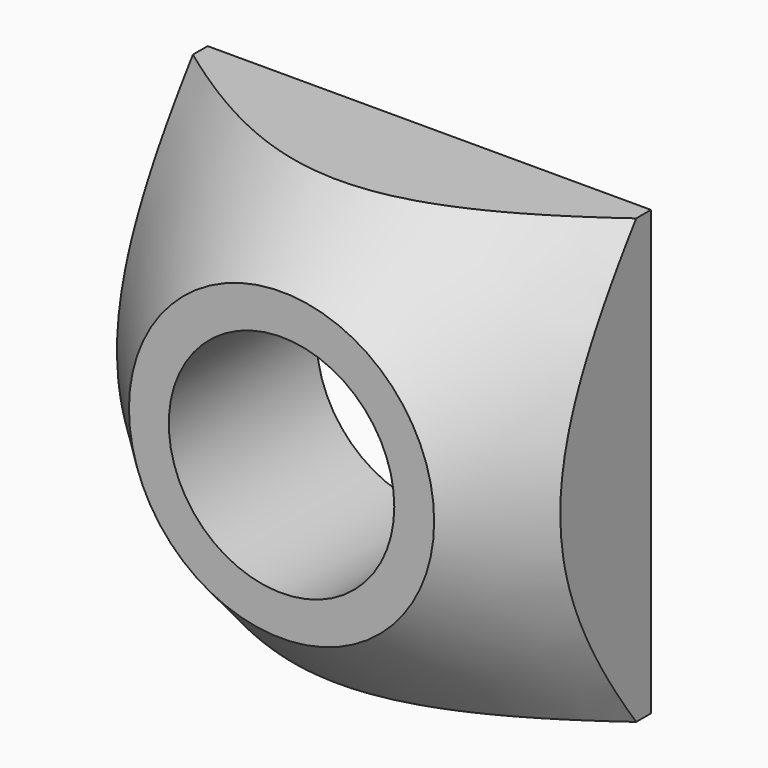
from build123d import *

# Parameters (mm, degrees)
F0_W     = 60
F0_H     = 60
F1_DEPTH = 25
F2_R     = 44.839228
F3_R     = 20.655466
F5_R     = 15.261673
F6_DEPTH = 30


with BuildPart() as f1:
    # F0 (on Front) → F1 (new body)
    with BuildSketch(Plane.XZ):
        Rectangle(F0_W, F0_H)
    extrude(amount=F1_DEPTH)

    # F2 (on Front) → F4 section 0
    with BuildSketch(Plane.XZ):
        Circle(F2_R)
    # F3 (on face) → F4 section 1
    with BuildSketch(Plane.XZ.offset(25)):
        Circle(F3_R)
    loft(mode=Mode.INTERSECT)

    # F5 (on face) → F6 (cut)
    with BuildSketch(Plane.XZ.offset(25)):
        Circle(F5_R)
    extrude(amount=-F6_DEPTH, mode=Mode.SUBTRACT)


solid = f1.part
